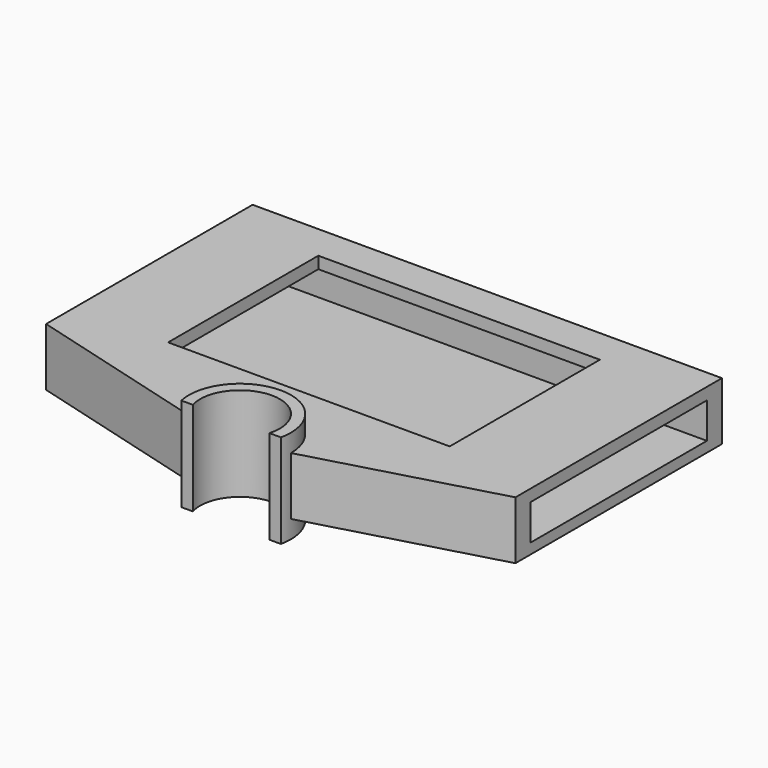
from build123d import *

# Parameters (mm, degrees)
F1_DEPTH  = 12.7
F3_DEPTH  = 7.85
F4_W      = 59.69
F4_H      = 9.652
F5_DEPTH  = 127.001
F6_W      = 76.2
F6_H      = 50.8
F7_DEPTH  = 5.08
F9_W      = 62.4130927026
F9_H      = 11.1426808871
F10_DEPTH = 0.254


with BuildPart() as f1:
    # F0 (on Top) → F1 (new body, symmetric)
    with BuildSketch(Plane.XY):
        with BuildLine():
            ThreePointArc((-10.3697649443, -3), (0, 10.795), (10.3697649443, -3))
            Line((10.3697649443, -3), (13.4648440392, -3))
            ThreePointArc((13.4648440392, -3), (13.7122125954, -1.5090562414), (13.795, 0))
            ThreePointArc((13.795, 0), (0, 13.795), (-13.795, 0))
            ThreePointArc((-13.795, 0), (-13.7122125954, -1.5090562414), (-13.4648440392, -3))
            Line((-13.4648440392, -3), (-10.3697649443, -3))
        make_face()
    extrude(amount=F1_DEPTH, both=True)

    # F2 (on Top) → F3 (join, symmetric)
    with BuildSketch(Plane.XY):
        with BuildLine():
            Line((63.5, 13.794994), (63.5, 83.644994))
            Line((63.5, 83.644994), (-63.5, 83.644994))
            Line((-63.5, 83.644994), (-63.5, 13.794994))
            Line((-63.5, 13.794994), (-13.794994, 0))
            ThreePointArc((-13.794994, 0), (0, 13.794994), (13.794994, 0))
            Line((13.794994, 0), (63.5, 13.794994))
        make_face()
    extrude(amount=F3_DEPTH, both=True)

    # F4 (on face) → F5 (cut, through all)
    with BuildSketch(Plane.YZ.offset(63.5)):
        with Locations((48.719994, -0.1927575009)):
            Rectangle(F4_W, F4_H)
    extrude(amount=-F5_DEPTH, mode=Mode.SUBTRACT)

    # F6 (on face) → F7 (cut)
    with BuildSketch(Plane.XY.offset(7.85)):
        with Locations((0, 48.719994)):
            Rectangle(F6_W, F6_H)
    extrude(amount=-F7_DEPTH, mode=Mode.SUBTRACT)

    # F9 (on face) → F10 (join)
    with BuildSketch(Plane(origin=(-63.5, 0, 0), x_dir=(0, -1, 0), z_dir=(-1, 0, 0))):
        with Locations((-48.8958675414, -0.0143751968)):
            Rectangle(F9_W, F9_H)
    extrude(amount=-F10_DEPTH)


solid = f1.part
